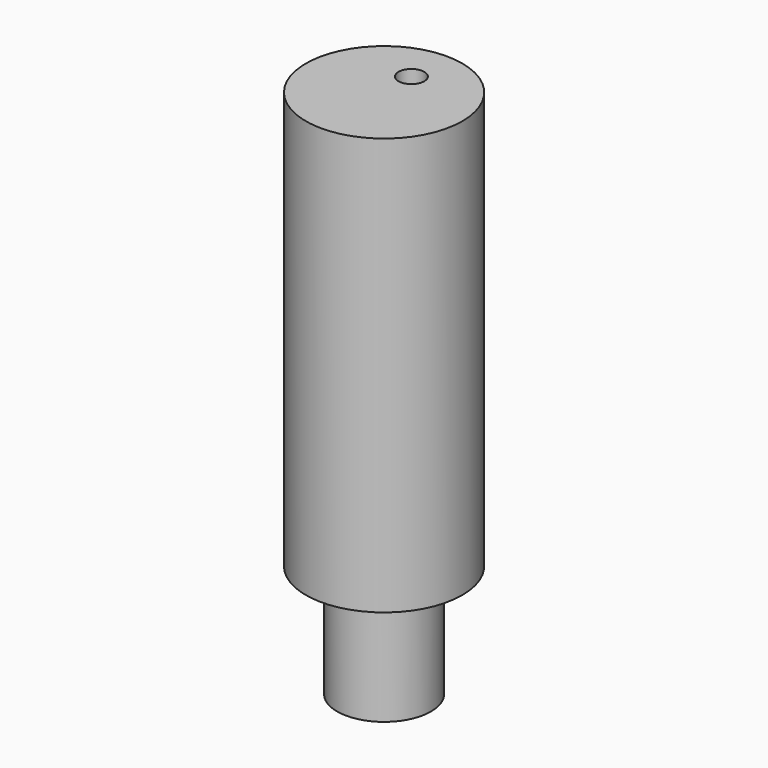
from build123d import *

# Parameters (mm, degrees)
F0_R     = 5.715
F1_DEPTH = 13.716
F2_R     = 9.525
F2_R_2   = 5.715
F3_DEPTH = 50.8
F4_R     = 1.564291
F5_DEPTH = 6.35


with BuildPart() as f1:
    # F0 (on Top) → F1 (new body)
    with BuildSketch(Plane.XY):
        Circle(F0_R)
    extrude(amount=F1_DEPTH)

    # F2 (on face) → F3 (join)
    with BuildSketch(Plane.XY.offset(13.716)):
        Circle(F2_R)
        Circle(F2_R_2, mode=Mode.SUBTRACT)
        Circle(F2_R_2)
    extrude(amount=F3_DEPTH)

    # F4 (on face) → F5 (cut)
    with BuildSketch(Plane.XY.offset(64.516)):
        with Locations((0, 4.160097)):
            Circle(F4_R)
    extrude(amount=-F5_DEPTH, mode=Mode.SUBTRACT)


solid = f1.part
